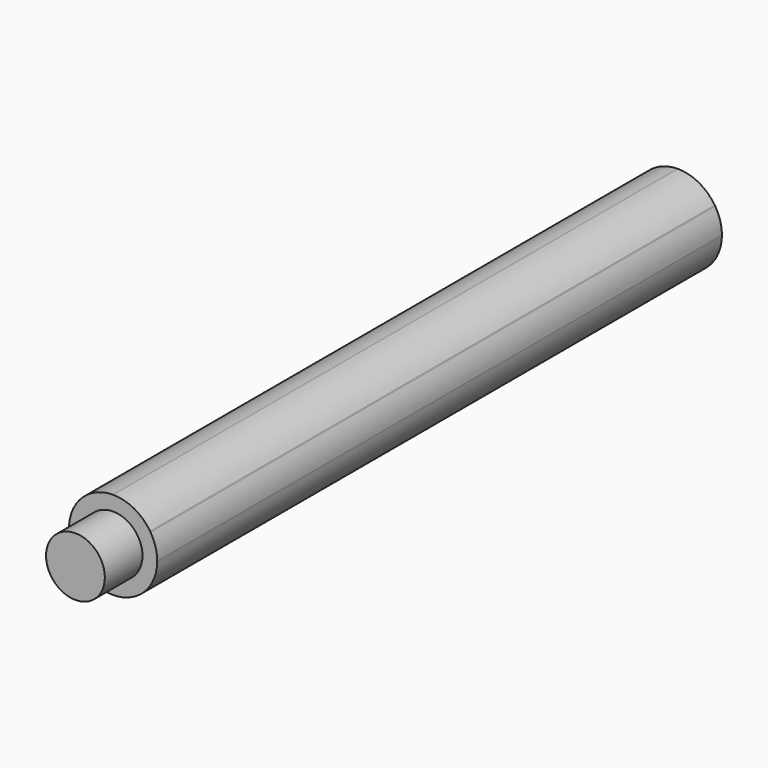
from build123d import *

# Parameters (mm, degrees)
F0_R     = 1.5875
F1_DEPTH = 38.1
F2_DEPTH = 40.64


with BuildPart() as f1:
    # F0 (on Front) → F1 (new body)
    with BuildSketch(Plane.XZ):
        with BuildLine():
            add(Edge.make_bspline(
                [(-2.039045, -1.229896), (-2.008193, -1.275858), (-1.977766, -1.322509), (-1.947774, -1.369864)],
                knots=[27.094619, 27.094619, 27.094619, 27.094619, 27.26278, 27.26278, 27.26278, 27.26278], degree=3))
            ThreePointArc((-2.039045, -1.229896), (-1.994638, -1.300681), (-1.947774, -1.369864))
        make_face()
        with BuildLine():
            add(Edge.make_bspline(
                [(2.019846, 1.26118), (2.011239, 1.274554), (2.002664, 1.287985), (1.994123, 1.301471)],
                knots=[27.195118, 27.195118, 27.195118, 27.195118, 27.242974, 27.242974, 27.242974, 27.242974], degree=3))
            ThreePointArc((1.994123, 1.301471), (1.133848, 2.093977), (0, 2.38125))
            ThreePointArc((0, 2.38125), (-2.073529, 1.170825), (-2.039045, -1.229896))
            add(Edge.make_bspline(
                [(-2.039045, -1.229896), (-2.008193, -1.275858), (-1.977766, -1.322509), (-1.947774, -1.369864)],
                knots=[27.094619, 27.094619, 27.094619, 27.094619, 27.26278, 27.26278, 27.26278, 27.26278], degree=3))
            ThreePointArc((-1.947774, -1.369864), (-1.133848, -2.093977), (-0.082606, -2.379817))
            ThreePointArc((-0.082606, -2.379817), (1.654335, -1.712755), (2.38125, 0))
            ThreePointArc((2.38125, 0), (2.289117, 0.65597), (2.019846, 1.26118))
        make_face()
        Circle(F0_R, mode=Mode.SUBTRACT)
    extrude(amount=F1_DEPTH)

    # F0 (on Front) → F2 (join)
    with BuildSketch(Plane.XZ):
        Circle(F0_R)
    extrude(amount=F2_DEPTH)


solid = f1.part
